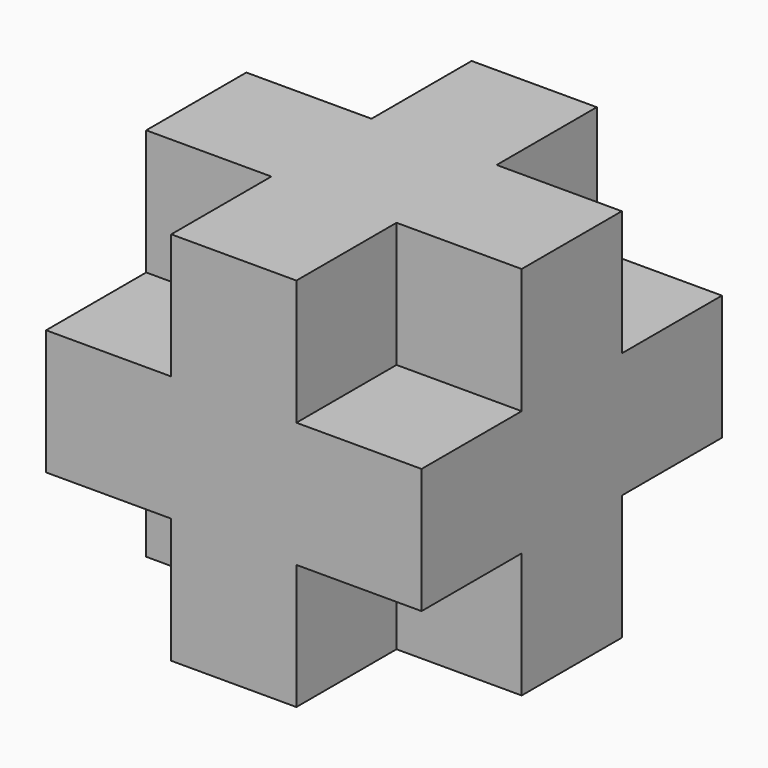
from build123d import *

# Parameters (mm, degrees)
F0_W     = 75
F0_H     = 75
F1_DEPTH = 75
F2_W     = 25
F2_H     = 25
F3_DEPTH = 25
F4_W     = 25
F4_H     = 25
F5_DEPTH = 25


with BuildPart() as f1:
    # F0 (on Top) → F1 (new body)
    with BuildSketch(Plane.XY):
        with Locations((-11.791817, -4.223716)):
            Rectangle(F0_W, F0_H)
    extrude(amount=F1_DEPTH)

    # F2 (on face) → F3 (cut)
    with BuildSketch(Plane(origin=(0, 0, 0), x_dir=(1, 0, 0), z_dir=(0, 0, -1))):
        with Locations((-36.791817, 29.223716)):
            Rectangle(F2_W, F2_H)
        with Locations((-36.791817, -20.776284)):
            Rectangle(F2_W, F2_H)
        with Locations((13.208183, 29.223716)):
            Rectangle(F2_W, F2_H)
        with Locations((13.208183, -20.776284)):
            Rectangle(F2_W, F2_H)
    extrude(amount=-F3_DEPTH, mode=Mode.SUBTRACT)

    # F4 (on face) → F5 (cut)
    with BuildSketch(Plane.XY.offset(75)):
        with Locations((-36.791817, 20.776284)):
            Rectangle(F4_W, F4_H)
        with Locations((13.208183, 20.776284)):
            Rectangle(F4_W, F4_H)
        with Locations((-36.791817, -29.223716)):
            Rectangle(F4_W, F4_H)
        with Locations((13.208183, -29.223716)):
            Rectangle(F4_W, F4_H)
    extrude(amount=-F5_DEPTH, mode=Mode.SUBTRACT)


solid = f1.part
